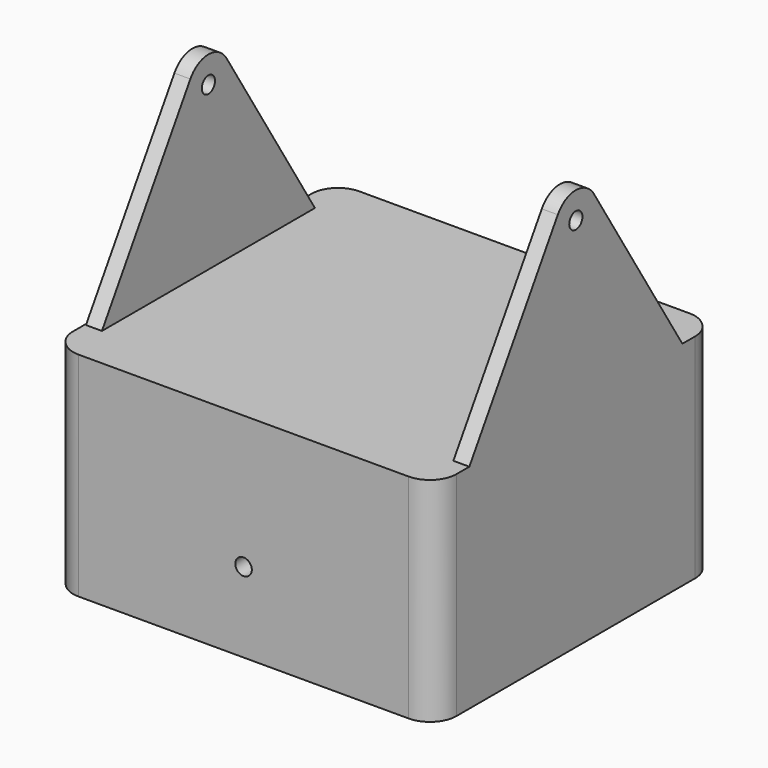
from build123d import *

# Parameters (mm, degrees)
F1_DEPTH = 40
F3_DEPTH = 3
F5_DEPTH = 3
F7_DEPTH = 3
F9_D     = 3.1
F11_D    = 3.1


with BuildPart() as f1:
    # F0 (on Top) → F1 (new body)
    with BuildSketch(Plane.XY):
        with BuildLine():
            ThreePointArc((-98.1582802534, -68.7836479545), (-101.6938141593, -70.2481140485), (-103.1582802534, -73.7836479545))
            Line((-103.1582802534, -73.7836479545), (-103.1582802534, -129.7836479545))
            ThreePointArc((-103.1582802534, -129.7836479545), (-101.6938141593, -133.3191818604), (-98.1582802534, -134.7836479545))
            Line((-98.1582802534, -134.7836479545), (-36.1582802534, -134.7836479545))
            ThreePointArc((-36.1582802534, -134.7836479545), (-32.6227463475, -133.3191818604), (-31.1582802534, -129.7836479545))
            Line((-31.1582802534, -129.7836479545), (-31.1582802534, -73.7836479545))
            ThreePointArc((-31.1582802534, -73.7836479545), (-32.6227463475, -70.2481140485), (-36.1582802534, -68.7836479545))
            Line((-36.1582802534, -68.7836479545), (-98.1582802534, -68.7836479545))
        make_face()
        with BuildLine():
            ThreePointArc((-100.1582802534, -76.7836479545), (-98.6938141593, -73.2481140485), (-95.1582802534, -71.7836479545))
            Line((-95.1582802534, -71.7836479545), (-39.1582802534, -71.7836479545))
            ThreePointArc((-39.1582802534, -71.7836479545), (-35.6227463475, -73.2481140485), (-34.1582802534, -76.7836479545))
            Line((-34.1582802534, -76.7836479545), (-34.1582802534, -126.7836479545))
            ThreePointArc((-34.1582802534, -126.7836479545), (-35.6227463475, -130.3191818604), (-39.1582802534, -131.7836479545))
            Line((-39.1582802534, -131.7836479545), (-95.1582802534, -131.7836479545))
            ThreePointArc((-95.1582802534, -131.7836479545), (-98.6938141593, -130.3191818604), (-100.1582802534, -126.7836479545))
            Line((-100.1582802534, -126.7836479545), (-100.1582802534, -76.7836479545))
        make_face(mode=Mode.SUBTRACT)
    extrude(amount=F1_DEPTH)

    # F2 (on face) → F3 (join)
    with BuildSketch(Plane.YZ.offset(-100.1582802534)):
        with BuildLine():
            Line((-106.0236394745, 73.216013568), (-126.7836479545, 40))
            Line((-126.7836479545, 40), (-76.7836479545, 40))
            Line((-76.7836479545, 40), (-97.5436564344, 73.216013568))
            ThreePointArc((-97.5436564344, 73.216013568), (-101.7836479545, 75.5660188679), (-106.0236394745, 73.216013568))
        make_face()
    extrude(amount=-F3_DEPTH)

    # F4 (on face) → F5 (join)
    with BuildSketch(Plane(origin=(-34.1582802534, 0, 0), x_dir=(0, -1, 0), z_dir=(-1, 0, 0))):
        with BuildLine():
            Line((97.5436564344, 73.216013568), (76.7836479545, 40))
            Line((76.7836479545, 40), (80.8389559388, 40))
            Line((80.8389559388, 40), (126.7836479545, 40))
            Line((126.7836479545, 40), (106.0236394745, 73.216013568))
            ThreePointArc((106.0236394745, 73.216013568), (101.7836479545, 75.5660188679), (97.5436564344, 73.216013568))
        make_face()
    extrude(amount=-F5_DEPTH)

    # F6 (on face) → F7 (join)
    with BuildSketch(Plane.XY.offset(40)):
        with BuildLine():
            Line((-36.3776951637, -68.5804857016), (-98.3776951637, -68.5804857016))
            ThreePointArc((-98.3776951637, -68.5804857016), (-101.9132290697, -70.0449517956), (-103.3776951637, -73.5804857016))
            Line((-103.3776951637, -73.5804857016), (-103.3776951637, -129.5804857016))
            ThreePointArc((-103.3776951637, -129.5804857016), (-102.9290181233, -131.6506207979), (-101.6635114368, -133.349227059))
            ThreePointArc((-101.6635114368, -133.349227059), (-102.7694707676, -131.716759964), (-103.1582802534, -129.7836479545))
            Line((-103.1582802534, -129.7836479545), (-103.1582802534, -126.7836479545))
            Line((-103.1582802534, -126.7836479545), (-100.1582802534, -126.7836479545))
            ThreePointArc((-100.1582802534, -126.7836479545), (-98.6938141593, -130.3191818604), (-95.1582802534, -131.7836479545))
            Line((-95.1582802534, -131.7836479545), (-39.1582802534, -131.7836479545))
            ThreePointArc((-39.1582802534, -131.7836479545), (-35.6227463475, -130.3191818604), (-34.1582802534, -126.7836479545))
            Line((-34.1582802534, -126.7836479545), (-31.3776951637, -126.7836479545))
            Line((-31.3776951637, -126.7836479545), (-31.3776951637, -73.5804857016))
            ThreePointArc((-31.3776951637, -73.5804857016), (-32.8421612578, -70.0449517956), (-36.3776951637, -68.5804857016))
        make_face()
    extrude(amount=-F7_DEPTH)

    # F9 (through all)
    with Locations(Plane.YZ.offset(-31.1582802534)):
        with Locations((-101.7836479545, 70.5660188679)):
            Hole(F9_D / 2)

    # F11 (through all)
    with Locations(Plane.XZ.offset(134.7836479545)):
        with Locations((-67.1582802534, 15)):
            Hole(F11_D / 2)


solid = f1.part
